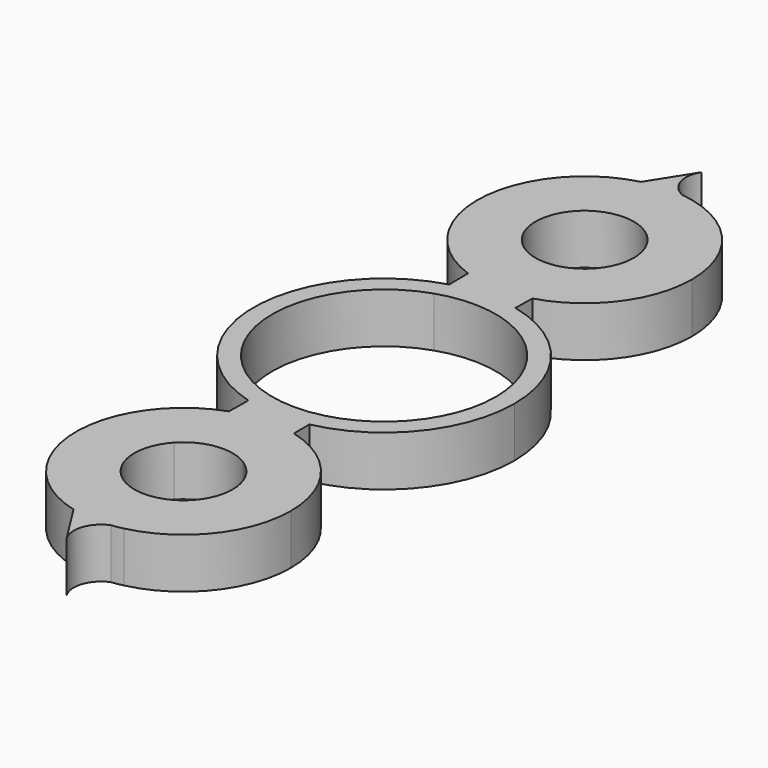
from build123d import *

# Parameters (mm, degrees)
F1_DEPTH = 5


with BuildPart() as f1:
    # F0 (on Top) → F1 (new body)
    with BuildSketch(Plane.XY):
        with BuildLine():
            ThreePointArc((2.7122959353, -12.713907769), (10.1059350671, -8.1774125749), (13, 0))
            ThreePointArc((13, 0), (10.188810068, 8.0739178469), (2.9710539386, 12.655940838))
            Line((2.9710539386, 12.655940838), (2.9364421357, 10.7563845033))
            ThreePointArc((2.9364421357, 10.7563845033), (8.8618234527, 6.7668741006), (11.15, 0))
            ThreePointArc((11.15, 0), (8.7864219198, -6.8644948719), (2.6977507002, -10.8187171679))
            Line((2.6977507002, -10.8187171679), (2.7122959353, -12.713907769))
        make_face()
        with BuildLine():
            Line((2.9364421357, 10.7563845033), (2.9710539386, 12.655940838))
            ThreePointArc((2.9710539386, 12.655940838), (-0.286589911, 12.9968406247), (-3.5260404631, 12.5126751198))
            Line((-3.5260404631, 12.5126751198), (-3.5111298648, 10.5827438348))
            ThreePointArc((-3.5111298648, 10.5827438348), (-0.3001737279, 11.1459587175), (2.9364421357, 10.7563845033))
        make_face()
        with BuildLine():
            ThreePointArc((-3.5260404631, 12.5126751198), (-0.286589911, 12.9968406247), (2.9710539386, 12.655940838))
            Line((2.9710539386, 12.655940838), (3.0087567031, 14.7251345571))
            ThreePointArc((3.0087567031, 14.7251345571), (-0.2813642855, 14.2973689727), (-3.5444648923, 14.8974139253))
            Line((-3.5444648923, 14.8974139253), (-3.5260404631, 12.5126751198))
        make_face()
        with BuildLine():
            Line((2.7271307145, -14.6468248911), (2.7122959353, -12.713907769))
            ThreePointArc((2.7122959353, -12.713907769), (-0.4191284814, -12.9932417555), (-3.5260404631, -12.5126751198))
            Line((-3.5260404631, -12.5126751198), (-3.5444648923, -14.8974139253))
            ThreePointArc((-3.5444648923, -14.8974139253), (-0.4274429852, -14.3022072715), (2.7271307145, -14.6468248911))
        make_face()
        with BuildLine():
            ThreePointArc((-3.5260404631, -12.5126751198), (-0.4191284814, -12.9932417555), (2.7122959353, -12.713907769))
            Line((2.7122959353, -12.713907769), (2.6977507002, -10.8187171679))
            ThreePointArc((2.6977507002, -10.8187171679), (-0.4234586991, -11.1419559652), (-3.5111298648, -10.5827438348))
            Line((-3.5111298648, -10.5827438348), (-3.5260404631, -12.5126751198))
        make_face()
        with BuildLine():
            Line((-3.5111298648, 10.5827438348), (-3.5260404631, 12.5126751198))
            ThreePointArc((-3.5260404631, 12.5126751198), (-13, 0), (-3.5260404631, -12.5126751198))
            Line((-3.5260404631, -12.5126751198), (-3.5111298648, -10.5827438348))
            ThreePointArc((-3.5111298648, -10.5827438348), (-11.15, 0), (-3.5111298648, 10.5827438348))
        make_face()
        with BuildLine():
            ThreePointArc((-3.5444648923, 14.8974139253), (-0.2813642855, 14.2973689727), (3.0087567031, 14.7251345571))
            Line((3.0087567031, 14.7251345571), (3.1272396008, 21.2276834068))
            ThreePointArc((3.1272396008, 21.2276834068), (-0.3233654921, 20.110681565), (-3.5968081993, 21.6723926347))
            Line((-3.5968081993, 21.6723926347), (-3.5444648923, 14.8974139253))
        make_face()
        with BuildLine():
            Line((3.1272396008, 21.2276834068), (3.0087567031, 14.7251345571))
            ThreePointArc((3.0087567031, 14.7251345571), (8.5684950653, 18.5807812714), (10.7063288184, 25))
            ThreePointArc((10.7063288184, 25), (8.3789632953, 31.664716863), (2.4087224927, 35.4318518357))
            ThreePointArc((2.4087224927, 35.4318518357), (1.8249945721, 35.4695237329), (1.2629482579, 35.6315774214))
            ThreePointArc((1.2629482579, 35.6315774214), (-0.7150206007, 35.6824258626), (-2.6685684721, 35.3684241367))
            ThreePointArc((-2.6685684721, 35.3684241367), (-10.6965419957, 25.4576746699), (-3.5444648923, 14.8974139253))
            Line((-3.5444648923, 14.8974139253), (-3.5968081993, 21.6723926347))
            ThreePointArc((-3.5968081993, 21.6723926347), (-1.7868463593, 29.5625848034), (4.9, 25))
            ThreePointArc((4.9, 25), (4.4347194976, 22.9159503418), (3.1272396008, 21.2276834068))
        make_face()
        with BuildLine():
            ThreePointArc((10.7063288184, -25), (8.480065888, -18.4644082667), (2.7271307145, -14.6468248911))
            Line((2.7271307145, -14.6468248911), (2.7755979263, -20.9619242019))
            ThreePointArc((2.7755979263, -20.9619242019), (4.3364980018, -22.7186001927), (4.9, -25))
            ThreePointArc((4.9, -25), (-1.7868463593, -29.5625848034), (-3.5968081993, -21.6723926347))
            Line((-3.5968081993, -21.6723926347), (-3.5444648923, -14.8974139253))
            ThreePointArc((-3.5444648923, -14.8974139253), (-10.6965419957, -25.4576746699), (-2.6685684721, -35.3684241367))
            ThreePointArc((-2.6685684721, -35.3684241367), (-0.7150206007, -35.6824258626), (1.2629482579, -35.6315774214))
            ThreePointArc((1.2629482579, -35.6315774214), (1.8249945721, -35.4695237329), (2.4087224927, -35.4318518357))
            ThreePointArc((2.4087224927, -35.4318518357), (8.3789632953, -31.664716863), (10.7063288184, -25))
        make_face()
        with BuildLine():
            Line((2.7755979263, -20.9619242019), (2.7271307145, -14.6468248911))
            ThreePointArc((2.7271307145, -14.6468248911), (-0.4274429852, -14.3022072715), (-3.5444648923, -14.8974139253))
            Line((-3.5444648923, -14.8974139253), (-3.5968081993, -21.6723926347))
            ThreePointArc((-3.5968081993, -21.6723926347), (-0.5429437601, -20.1301733015), (2.7755979263, -20.9619242019))
        make_face()
        with BuildLine():
            Line((0, 39.5878180861), (-2.6685684721, 35.3684241367))
            ThreePointArc((-2.6685684721, 35.3684241367), (-0.7150206007, 35.6824258626), (1.2629482579, 35.6315774214))
            ThreePointArc((1.2629482579, 35.6315774214), (-0.2912756787, 37.315128904), (0, 39.5878180861))
        make_face()
        with BuildLine():
            ThreePointArc((1.2629482579, 35.6315774214), (1.8249945721, 35.4695237329), (2.4087224927, 35.4318518357))
            ThreePointArc((2.4087224927, 35.4318518357), (1.8385494561, 35.547284611), (1.2629482579, 35.6315774214))
        make_face()
        with BuildLine():
            ThreePointArc((1.2629482579, -35.6315774214), (-0.7150206007, -35.6824258626), (-2.6685684721, -35.3684241367))
            Line((-2.6685684721, -35.3684241367), (0, -39.5878180861))
            ThreePointArc((0, -39.5878180861), (-0.2912756787, -37.315128904), (1.2629482579, -35.6315774214))
        make_face()
        with BuildLine():
            ThreePointArc((1.2629482579, -35.6315774214), (1.8385494561, -35.547284611), (2.4087224927, -35.4318518357))
            ThreePointArc((2.4087224927, -35.4318518357), (1.8249945721, -35.4695237329), (1.2629482579, -35.6315774214))
        make_face()
    extrude(amount=F1_DEPTH)


solid = f1.part
